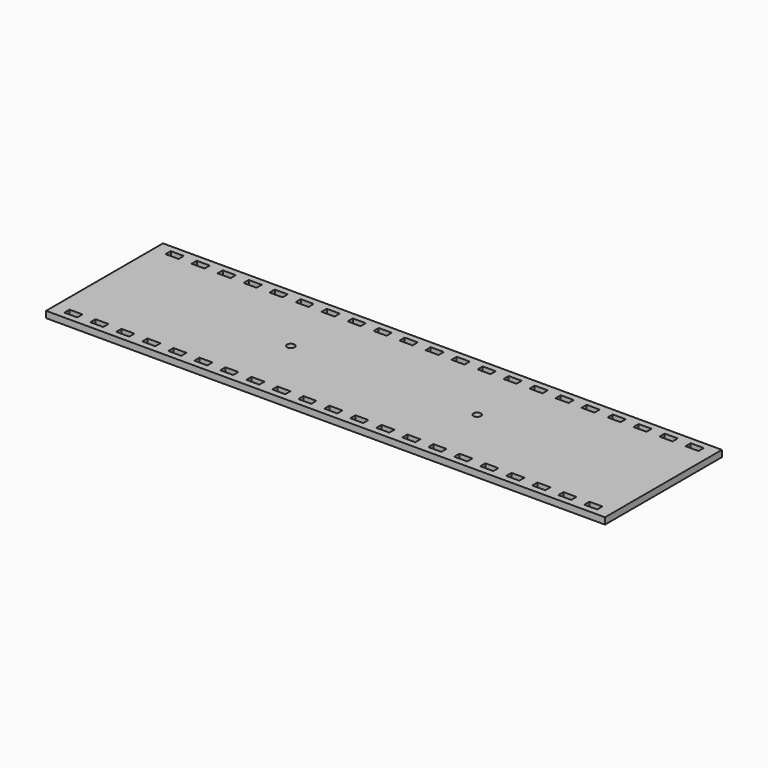
from build123d import *

# Parameters (mm, degrees)
F0_W     = 273.05
F0_H     = 71.374
F1_DEPTH = 3.175
F2_R     = 1.8288
F2_W     = 6.35
F2_H     = 3.175
F3_DEPTH = 3.175


with BuildPart() as f1:
    # F0 (on Top) → F1 (new body)
    with BuildSketch(Plane.XY):
        with Locations((-136.525, 35.687)):
            Rectangle(F0_W, F0_H)
    extrude(amount=F1_DEPTH)

    # F2 (on face) → F3 (cut, through all)
    with BuildSketch(Plane.XY.offset(3.175)):
        with Locations((-182.033333, 35.687)):
            Circle(F2_R)
        with Locations((-91.016667, 35.687)):
            Circle(F2_R)
        with Locations((-9.525, 4.7625)):
            Rectangle(F2_W, F2_H)
        with Locations((-9.525, 66.6115)):
            Rectangle(F2_W, F2_H)
        with Locations((-22.225, 66.6115)):
            Rectangle(F2_W, F2_H)
        with Locations((-34.925, 66.6115)):
            Rectangle(F2_W, F2_H)
        with Locations((-47.625, 66.6115)):
            Rectangle(F2_W, F2_H)
        with Locations((-60.325, 66.6115)):
            Rectangle(F2_W, F2_H)
        with Locations((-73.025, 66.6115)):
            Rectangle(F2_W, F2_H)
        with Locations((-85.725, 66.6115)):
            Rectangle(F2_W, F2_H)
        with Locations((-98.425, 66.6115)):
            Rectangle(F2_W, F2_H)
        with Locations((-111.125, 66.6115)):
            Rectangle(F2_W, F2_H)
        with Locations((-123.825, 66.6115)):
            Rectangle(F2_W, F2_H)
        with Locations((-136.525, 66.6115)):
            Rectangle(F2_W, F2_H)
        with Locations((-149.225, 66.6115)):
            Rectangle(F2_W, F2_H)
        with Locations((-161.925, 66.6115)):
            Rectangle(F2_W, F2_H)
        with Locations((-174.625, 66.6115)):
            Rectangle(F2_W, F2_H)
        with Locations((-187.325, 66.6115)):
            Rectangle(F2_W, F2_H)
        with Locations((-200.025, 66.6115)):
            Rectangle(F2_W, F2_H)
        with Locations((-212.725, 66.6115)):
            Rectangle(F2_W, F2_H)
        with Locations((-225.425, 66.6115)):
            Rectangle(F2_W, F2_H)
        with Locations((-238.125, 66.6115)):
            Rectangle(F2_W, F2_H)
        with Locations((-250.825, 66.6115)):
            Rectangle(F2_W, F2_H)
        with Locations((-263.525, 66.6115)):
            Rectangle(F2_W, F2_H)
        with Locations((-276.225, 66.6115)):
            Rectangle(F2_W, F2_H)
        with Locations((-22.225, 4.7625)):
            Rectangle(F2_W, F2_H)
        with Locations((-34.925, 4.7625)):
            Rectangle(F2_W, F2_H)
        with Locations((-47.625, 4.7625)):
            Rectangle(F2_W, F2_H)
        with Locations((-60.325, 4.7625)):
            Rectangle(F2_W, F2_H)
        with Locations((-73.025, 4.7625)):
            Rectangle(F2_W, F2_H)
        with Locations((-85.725, 4.7625)):
            Rectangle(F2_W, F2_H)
        with Locations((-98.425, 4.7625)):
            Rectangle(F2_W, F2_H)
        with Locations((-111.125, 4.7625)):
            Rectangle(F2_W, F2_H)
        with Locations((-123.825, 4.7625)):
            Rectangle(F2_W, F2_H)
        with Locations((-136.525, 4.7625)):
            Rectangle(F2_W, F2_H)
        with Locations((-149.225, 4.7625)):
            Rectangle(F2_W, F2_H)
        with Locations((-161.925, 4.7625)):
            Rectangle(F2_W, F2_H)
        with Locations((-174.625, 4.7625)):
            Rectangle(F2_W, F2_H)
        with Locations((-187.325, 4.7625)):
            Rectangle(F2_W, F2_H)
        with Locations((-200.025, 4.7625)):
            Rectangle(F2_W, F2_H)
        with Locations((-212.725, 4.7625)):
            Rectangle(F2_W, F2_H)
        with Locations((-225.425, 4.7625)):
            Rectangle(F2_W, F2_H)
        with Locations((-238.125, 4.7625)):
            Rectangle(F2_W, F2_H)
        with Locations((-250.825, 4.7625)):
            Rectangle(F2_W, F2_H)
        with Locations((-263.525, 4.7625)):
            Rectangle(F2_W, F2_H)
        with Locations((-276.225, 4.7625)):
            Rectangle(F2_W, F2_H)
    extrude(amount=-F3_DEPTH, mode=Mode.SUBTRACT)


solid = f1.part
